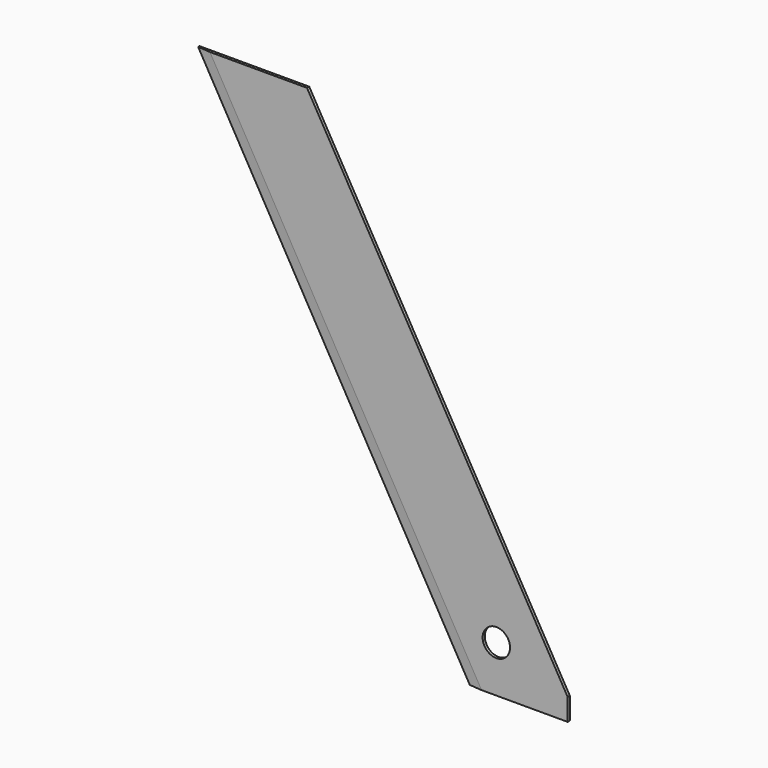
from build123d import *

# Parameters (mm, degrees)
SKETCH_R      = 2.5
PAD_DEPTH     = 0.5
CHAMFER_SIZE2 = 2
CHAMFER_SIZE  = 0.2


with BuildPart() as part:
    # Sketch → Pad (new body)
    with BuildSketch(Plane.XZ):
        Polygon((0, 0), (18, 0), (18, 4), (-29.5, 86.272413), (-49.5, 86.272413), align=None)
        with Locations((5, 8.5)):
            Circle(SKETCH_R, mode=Mode.SUBTRACT)
    extrude(amount=PAD_DEPTH)

    # Chamfer
    chamfer_edges = [part.edges().sort_by_distance(p)[0] for p in [
        (-24.75, -0.5, 43.136207),
    ]]
    chamfer_side = part.faces().sort_by_distance((-24.75, -0.25, 43.136207))[0]
    chamfer(chamfer_edges, length=CHAMFER_SIZE, length2=CHAMFER_SIZE2, reference=chamfer_side)


solid = part.part
